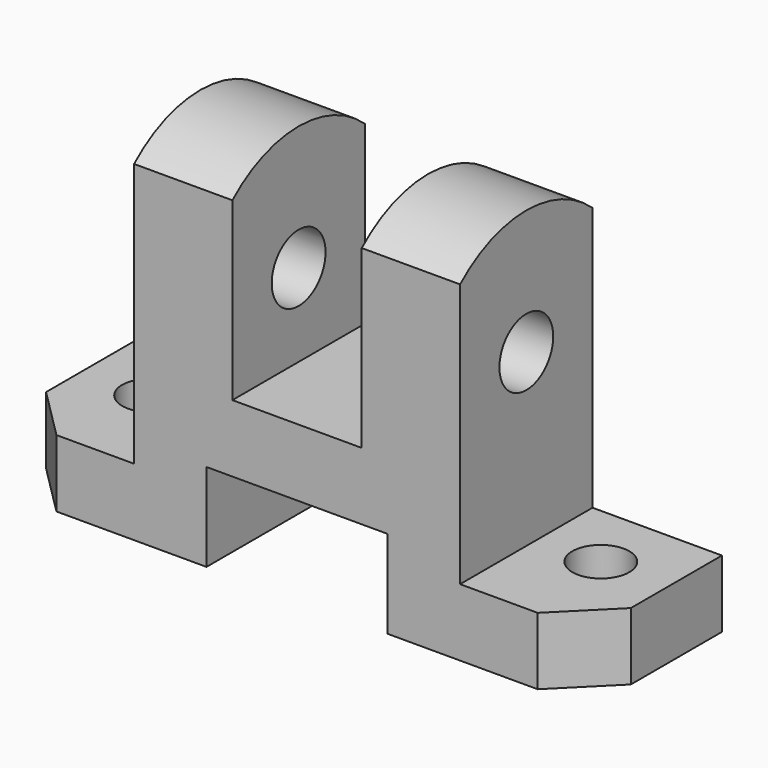
from build123d import *

# Parameters (mm, degrees)
F1_DEPTH  = 32
F3_DEPTH  = 13.001
F5_DEPTH  = 13.001
F6_R      = 5.5
F7_DEPTH  = 13.001
F9_DEPTH  = 19
F11_DEPTH = 19
F13_R     = 6.5
F14_DEPTH = 100.001


with BuildPart() as f1:
    # F0 (on Front) → F1 (new body)
    with BuildSketch(Plane.XZ):
        Polygon((0, 13), (0, 0), (39, 0), (39, 17), (74, 17), (74, 0), (113, 0), (113, 13), (88, 13), (88, 64), (69, 64), (69, 30), (44, 30), (44, 64), (25, 64), (25, 13), align=None)
    extrude(amount=-F1_DEPTH)

    # F2 (on face) → F3 (cut, through all)
    with BuildSketch(Plane.XY.offset(13)):
        Polygon((113, 10), (103, 0), (113, 0), align=None)
    extrude(amount=-F3_DEPTH, mode=Mode.SUBTRACT)

    # F4 (on face) → F5 (cut, through all)
    with BuildSketch(Plane.XY.offset(13)):
        Polygon((0, 10), (0, 0), (10, 0), align=None)
    extrude(amount=-F5_DEPTH, mode=Mode.SUBTRACT)

    # F6 (on face) → F7 (cut, through all)
    with BuildSketch(Plane.XY.offset(13)):
        with Locations((13, 19)):
            Circle(F6_R)
        with Locations((100, 19)):
            Circle(F6_R)
    extrude(amount=-F7_DEPTH, mode=Mode.SUBTRACT)

    # F8 (on face) → F9 (join)
    with BuildSketch(Plane.YZ.offset(88)):
        with BuildLine():
            Line((0, 64), (32, 64))
            ThreePointArc((32, 64), (16, 70.083189), (0, 64))
        make_face()
    extrude(amount=-F9_DEPTH)

    # F10 (on face) → F11 (join)
    with BuildSketch(Plane(origin=(25, 0, 0), x_dir=(0, -1, 0), z_dir=(-1, 0, 0))):
        with BuildLine():
            Line((-32, 64), (0, 64))
            ThreePointArc((0, 64), (-16, 70.083189), (-32, 64))
        make_face()
    extrude(amount=-F11_DEPTH)

    # F13 (on offset) → F14 (cut, through all)
    with BuildSketch(Plane.YZ.offset(100)):
        with Locations((16, 46)):
            Circle(F13_R)
    extrude(amount=-F14_DEPTH, mode=Mode.SUBTRACT)


solid = f1.part
